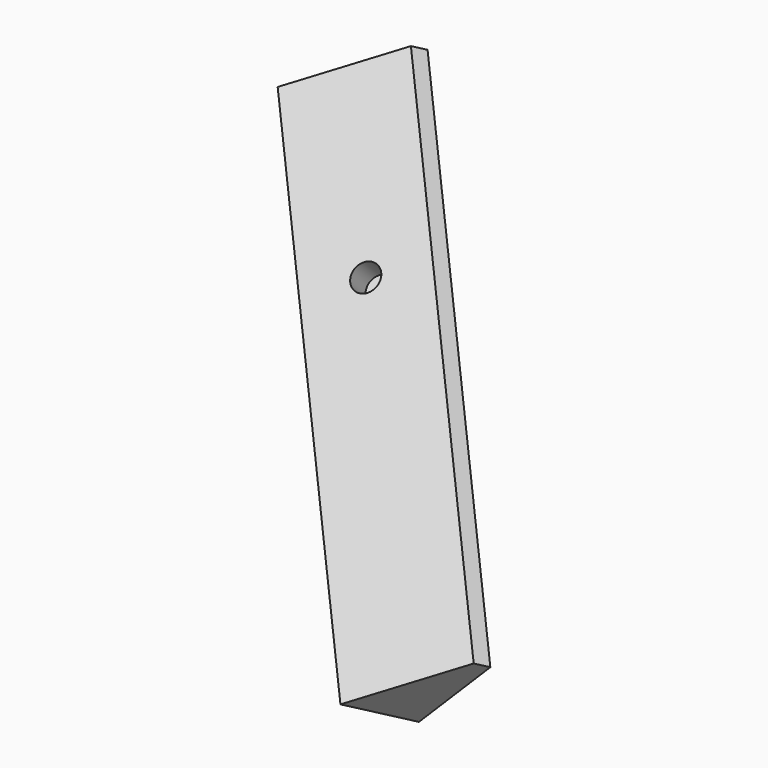
from build123d import *

# Parameters (mm, degrees)
PAD001_DEPTH            = 150
SKETCH001_R             = 7.5
PAD_DEPTH               = 15
SKETCH003_R             = 7.5
POCKET003_DEPTH         = 15
BODY003_PLACEMENT_ANGLE = 90


with BuildPart() as part:
    # Sketch002 (on DatumPlane) → Pad001 (new body, symmetric)
    with BuildSketch(Plane(origin=(0, -50, 50), x_dir=(0.816497, -0.408248, -0.408248), z_dir=(-0.57735, -0.57735, -0.57735))):
        Polygon((0, 0), (0, 55.710678), (-8.660254, 55.710678), (-40.824829, 0), align=None)
    extrude(amount=PAD001_DEPTH, both=True)

    # Sketch001 (on Face7 of Binder001) → Pad (join)
    with BuildSketch(Plane(origin=(0, -50, 50), x_dir=(1, 0, 0), z_dir=(0, -0.707107, 0.707107))):
        with Locations((32.196959, 80.888716)):
            Circle(SKETCH001_R)
    extrude(amount=-PAD_DEPTH)

    # Sketch003 (on Face6 of Pad) → Pocket003 (cut)
    with BuildSketch(Plane(origin=(-25, -50, 75), x_dir=(-0.408248, 0.816497, -0.408248), z_dir=(-0.707107, 0, 0.707107))):
        with Locations((-11.75216, -47.456286)):
            Circle(SKETCH003_R)
    extrude(amount=-POCKET003_DEPTH, mode=Mode.SUBTRACT)


with BuildPart() as part_1:
    # Body003 placement: moved
    add(part.part.rotate(Axis((0, 0, 0), (0, 0, 1)), BODY003_PLACEMENT_ANGLE))


solid = part_1.part
